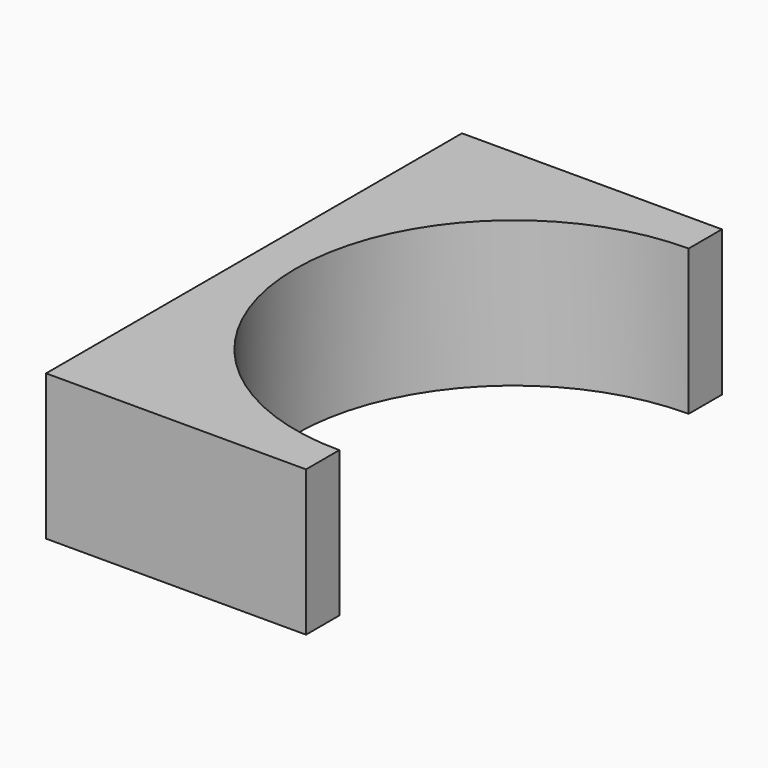
from build123d import *

# Parameters (mm, degrees)
SKETCH_W     = 125
SKETCH_H     = 125
SKETCH_R     = 52.5
PAD_DEPTH    = 35
SKETCH001_W  = 131.958801
SKETCH001_H  = 149.735626
POCKET_DEPTH = 35.001


with BuildPart() as part:
    # Sketch → Pad (new body)
    with BuildSketch(Plane.XY):
        Rectangle(SKETCH_W, SKETCH_H)
        Circle(SKETCH_R, mode=Mode.SUBTRACT)
    extrude(amount=PAD_DEPTH)

    # Sketch001 → Pocket (cut, through all)
    with BuildSketch(Plane.XY):
        with Locations((65.9794, -4.983963)):
            Rectangle(SKETCH001_W, SKETCH001_H)
    extrude(amount=POCKET_DEPTH, mode=Mode.SUBTRACT)


solid = part.part
